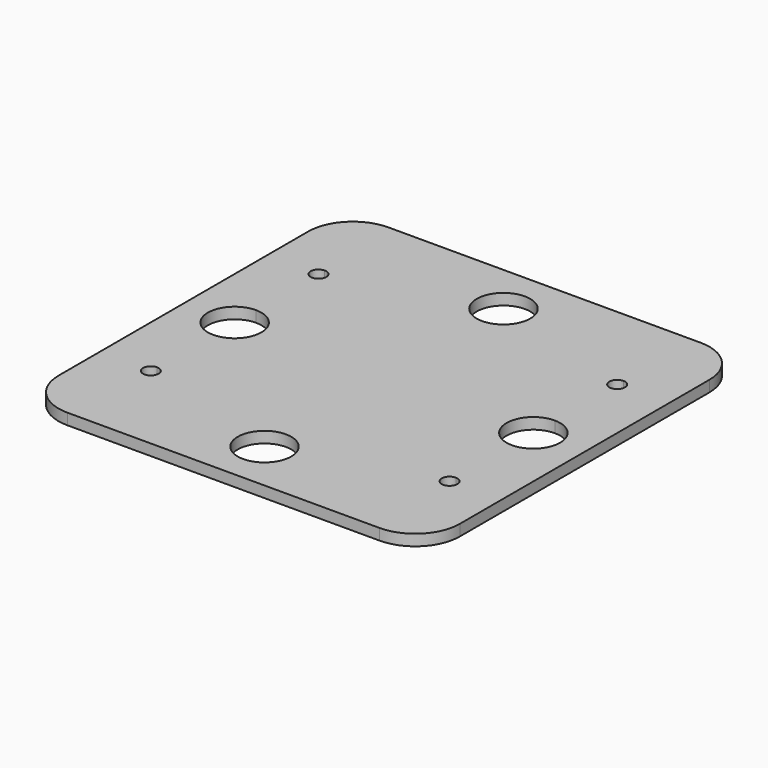
from build123d import *

# Parameters (mm, degrees)
F0_W     = 45.72
F0_H     = 45.72
F1_DEPTH = 1.27
F2_R     = 5.08


with BuildPart() as f1:
    # F0 (on Top) → F1 (new body)
    with BuildSketch(Plane.XY):
        with Locations((16.896047, 3.045559)):
            Rectangle(F0_W, F0_H)
        with BuildLine():
            ThreePointArc((13.848047, 20.063559), (16.896047, 23.111559), (19.944047, 20.063559))
            Line((19.944047, 20.063559), (33.914047, 20.063559))
            Line((33.914047, 20.063559), (33.914047, 15.872559))
            ThreePointArc((33.914047, 15.872559), (34.542665, 15.612177), (34.803047, 14.983559))
            ThreePointArc((34.803047, 14.983559), (34.542665, 14.354941), (33.914047, 14.094559))
            Line((33.914047, 14.094559), (33.914047, 6.093559))
            ThreePointArc((33.914047, 6.093559), (36.069308, 5.200821), (36.962047, 3.045559))
            ThreePointArc((36.962047, 3.045559), (36.069308, 0.890298), (33.914047, -0.002441))
            Line((33.914047, -0.002441), (33.914047, -8.003441))
            ThreePointArc((33.914047, -8.003441), (34.542665, -8.263823), (34.803047, -8.892441))
            ThreePointArc((34.803047, -8.892441), (34.542665, -9.521059), (33.914047, -9.781441))
            Line((33.914047, -9.781441), (33.914047, -13.972441))
            Line((33.914047, -13.972441), (19.944047, -13.972441))
            ThreePointArc((19.944047, -13.972441), (16.896047, -17.020441), (13.848047, -13.972441))
            Line((13.848047, -13.972441), (-0.121953, -13.972441))
            Line((-0.121953, -13.972441), (-0.121953, -9.781441))
            ThreePointArc((-0.121953, -9.781441), (-1.010953, -8.892441), (-0.121953, -8.003441))
            Line((-0.121953, -8.003441), (-0.121953, -0.002441))
            ThreePointArc((-0.121953, -0.002441), (-3.169953, 3.045559), (-0.121953, 6.093559))
            Line((-0.121953, 6.093559), (-0.121953, 14.094559))
            ThreePointArc((-0.121953, 14.094559), (-1.010953, 14.983559), (-0.121953, 15.872559))
            Line((-0.121953, 15.872559), (-0.121953, 20.063559))
            Line((-0.121953, 20.063559), (13.848047, 20.063559))
        make_face(mode=Mode.SUBTRACT)
        with BuildLine():
            Line((33.914047, 20.063559), (19.944047, 20.063559))
            ThreePointArc((19.944047, 20.063559), (16.896047, 17.015559), (13.848047, 20.063559))
            Line((13.848047, 20.063559), (-0.121953, 20.063559))
            Line((-0.121953, 20.063559), (-0.121953, 15.872559))
            ThreePointArc((-0.121953, 15.872559), (0.506665, 15.612177), (0.767047, 14.983559))
            ThreePointArc((0.767047, 14.983559), (0.506665, 14.354941), (-0.121953, 14.094559))
            Line((-0.121953, 14.094559), (-0.121953, 6.093559))
            ThreePointArc((-0.121953, 6.093559), (2.033308, 5.200821), (2.926047, 3.045559))
            ThreePointArc((2.926047, 3.045559), (2.033308, 0.890298), (-0.121953, -0.002441))
            Line((-0.121953, -0.002441), (-0.121953, -8.003441))
            ThreePointArc((-0.121953, -8.003441), (0.506665, -8.263823), (0.767047, -8.892441))
            ThreePointArc((0.767047, -8.892441), (0.506665, -9.521059), (-0.121953, -9.781441))
            Line((-0.121953, -9.781441), (-0.121953, -13.972441))
            Line((-0.121953, -13.972441), (13.848047, -13.972441))
            ThreePointArc((13.848047, -13.972441), (16.896047, -10.924441), (19.944047, -13.972441))
            Line((19.944047, -13.972441), (33.914047, -13.972441))
            Line((33.914047, -13.972441), (33.914047, -9.781441))
            ThreePointArc((33.914047, -9.781441), (33.025047, -8.892441), (33.914047, -8.003441))
            Line((33.914047, -8.003441), (33.914047, -0.002441))
            ThreePointArc((33.914047, -0.002441), (30.866047, 3.045559), (33.914047, 6.093559))
            Line((33.914047, 6.093559), (33.914047, 14.094559))
            ThreePointArc((33.914047, 14.094559), (33.025047, 14.983559), (33.914047, 15.872559))
            Line((33.914047, 15.872559), (33.914047, 20.063559))
        make_face()
    extrude(amount=F1_DEPTH)

    # F2
    f2_edges = [f1.edges().sort_by_distance(p)[0] for p in [
        (-5.963953, -19.814441, 0.635),
        (39.756047, -19.814441, 0.635),
        (39.756047, 25.905559, 0.635),
        (-5.963953, 25.905559, 0.635),
    ]]
    fillet(f2_edges, radius=F2_R)


solid = f1.part
